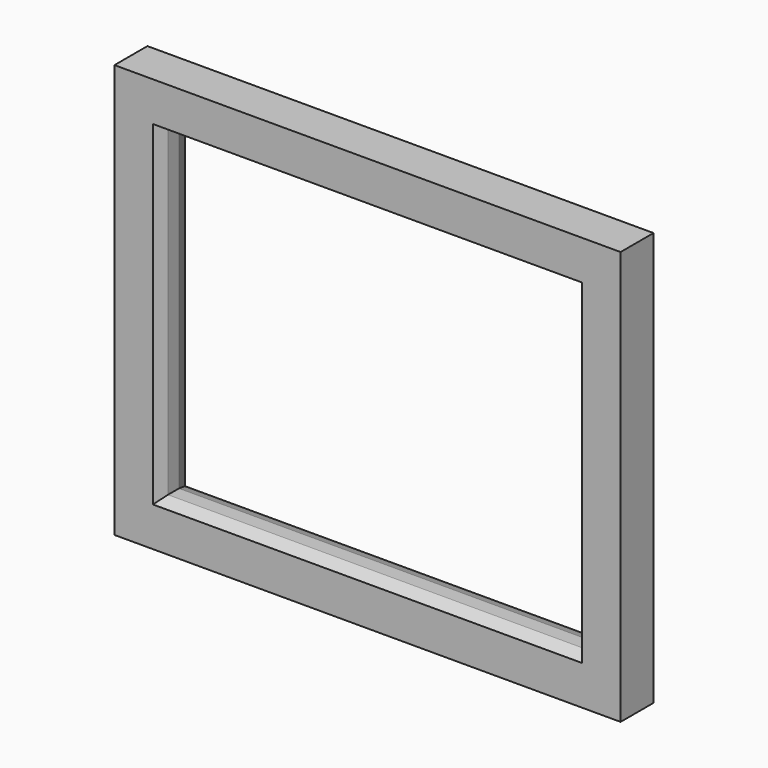
from build123d import *

# Parameters (mm, degrees)
F0_W     = 553
F0_H     = 452
F0_W_2   = 457
F0_H_2   = 354
F1_DEPTH = 22.5
F2_SIZE2 = 13
F2_SIZE  = 6
F3_SIZE2 = 7
F3_SIZE  = 17


with BuildPart() as f1:
    # F0 (on Front) → F1 (new body, symmetric)
    with BuildSketch(Plane.XZ):
        Rectangle(F0_W, F0_H)
        Rectangle(F0_W_2, F0_H_2, mode=Mode.SUBTRACT)
    extrude(amount=F1_DEPTH, both=True)

    # F2
    f2_edges = [f1.edges().sort_by_distance(p)[0] for p in [
        (0, -22.5, -177),
        (-228.5, -22.5, 0),
        (228.5, -22.5, 0),
        (0, -22.5, 177),
    ]]
    chamfer(f2_edges, length=F2_SIZE, length2=F2_SIZE2)

    # F3
    f3_edges = [f1.edges().sort_by_distance(p)[0] for p in [
        (0, 22.5, -177),
        (-228.5, 22.5, 0),
        (0, 22.5, 177),
        (228.5, 22.5, 0),
    ]]
    chamfer(f3_edges, length=F3_SIZE, length2=F3_SIZE2)


solid = f1.part
